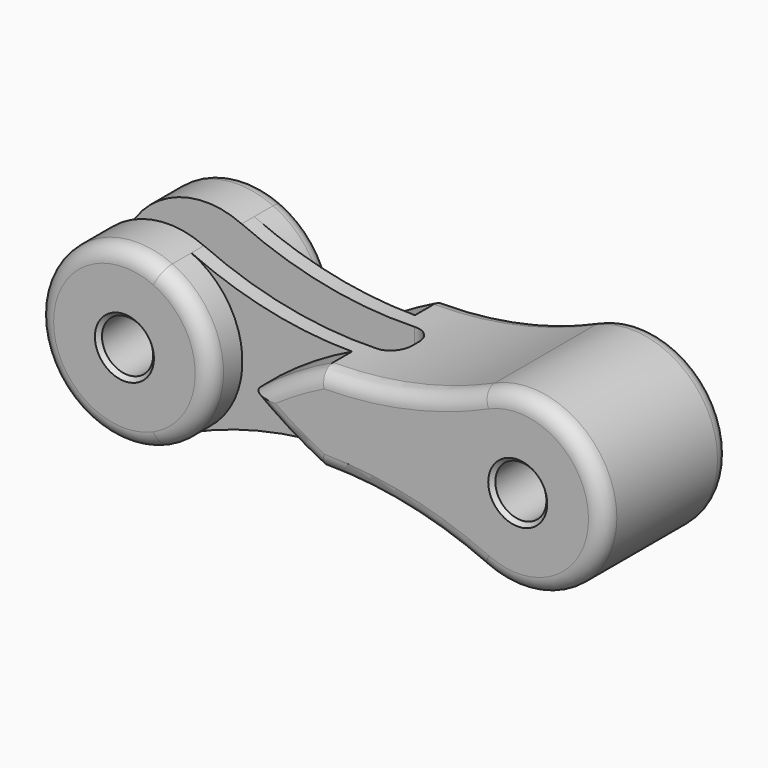
from build123d import *

# Parameters (mm, degrees)
F1_DEPTH  = 10
F3_R      = 3.25
F4_DEPTH  = 20.001
F2_R      = 4.25
F5_DEPTH  = 9
F6_R      = 6.55
F6_R_2    = 4.25
F7_DEPTH  = 5.5
F8_R      = 11
F9_DEPTH  = 5
F11_DEPTH = 5
F12_R     = 2
F14_W     = 6
F14_H     = 30
F15_DEPTH = 40
F16_R     = 2.5
F17_SIZE  = 0.5


with BuildPart() as f1:
    # F0 (on Front) → F1 (new body, symmetric)
    with BuildSketch(Plane.XZ):
        with BuildLine():
            ThreePointArc((20.4918032787, 10.0337511591), (0, 5.641710973), (-20.4918032787, 10.0337511591))
            ThreePointArc((-20.4918032787, 10.0337511591), (-36, 0), (-20.4918032787, -10.0337511591))
            ThreePointArc((-20.4918032787, -10.0337511591), (0, -5.641710973), (20.4918032787, -10.0337511591))
            ThreePointArc((20.4918032787, -10.0337511591), (36, 0), (20.4918032787, 10.0337511591))
        make_face()
    extrude(amount=F1_DEPTH, both=True)

    # F3 (on face) → F4 (cut, through all)
    with BuildSketch(Plane(origin=(0, 10, 0), x_dir=(-1, 0, 0), z_dir=(0, 1, 0))):
        with Locations((-25, 0)):
            Circle(F3_R)
        with Locations((25, 0)):
            Circle(F3_R)
    extrude(amount=-F4_DEPTH, mode=Mode.SUBTRACT)

    # F2 (on face) → F5 (cut)
    with BuildSketch(Plane(origin=(0, 10, 0), x_dir=(-1, 0, 0), z_dir=(0, 1, 0))):
        with Locations((25, 0)):
            Circle(F2_R)
    extrude(amount=-F5_DEPTH, mode=Mode.SUBTRACT)

    # F6 (on face) → F7 (cut)
    with BuildSketch(Plane(origin=(0, 10, 0), x_dir=(-1, 0, 0), z_dir=(0, 1, 0))):
        with Locations((25, 0)):
            Circle(F6_R)
        with Locations((25, 0)):
            Circle(F6_R_2, mode=Mode.SUBTRACT)
    extrude(amount=-F7_DEPTH, mode=Mode.SUBTRACT)

    # F8 (on face) → F9 (cut)
    with BuildSketch(Plane.XZ.offset(10)):
        with BuildLine():
            ThreePointArc((5.6538687387, -7.9576025909), (-2.1053254823, -4.6082797346), (-9.1895908953, 0))
            ThreePointArc((-9.1895908953, 0), (-2.1053254823, 4.6082797346), (5.6538687387, 7.9576025909))
            Line((5.6538687387, 7.9576025909), (-41.2745177746, 16.0983856767))
            Line((-41.2745177746, 16.0983856767), (-41.2745177746, 0))
            Line((-41.2745177746, 0), (-41.2745177746, -16.0983856767))
            Line((-41.2745177746, -16.0983856767), (5.6538687387, -7.9576025909))
        make_face()
        with Locations((-25, 0)):
            Circle(F8_R, mode=Mode.SUBTRACT)
    extrude(amount=-F9_DEPTH, mode=Mode.SUBTRACT)

    # F10 (on face) → F11 (cut)
    with BuildSketch(Plane(origin=(0, 10, 0), x_dir=(-1, 0, 0), z_dir=(0, 1, 0))):
        with BuildLine():
            Line((-5.6538687387, -7.9576025909), (41.2745177746, -16.0983856767))
            Line((41.2745177746, -16.0983856767), (41.2745177746, 0))
            Line((41.2745177746, 0), (41.2745177746, 16.0983856767))
            Line((41.2745177746, 16.0983856767), (-5.6538687387, 7.9576025909))
            ThreePointArc((-5.6538687387, 7.9576025909), (-2.7576543334, 6.8880347996), (0.0670265411, 5.6417558986))
            ThreePointArc((0.0670265411, 5.6417558986), (10.5113641589, 6.7590839617), (20.4918032787, 10.0337511591))
            ThreePointArc((20.4918032787, 10.0337511591), (30.9753592388, 9.235533659), (36, 0))
            ThreePointArc((36, 0), (30.9753592388, -9.235533659), (20.4918032787, -10.0337511591))
            ThreePointArc((20.4918032787, -10.0337511591), (10.5113641589, -6.7590839617), (0.0670265411, -5.6417558986))
            ThreePointArc((0.0670265411, -5.6417558986), (-2.7576543334, -6.8880347996), (-5.6538687387, -7.9576025909))
        make_face()
        with BuildLine():
            ThreePointArc((9.1895908953, 0), (4.7800323728, -3.0662109323), (0.0670265411, -5.6417558986))
            ThreePointArc((0.0670265411, -5.6417558986), (10.5113641589, -6.7590839617), (20.4918032787, -10.0337511591))
            ThreePointArc((20.4918032787, -10.0337511591), (14, 0), (20.4918032787, 10.0337511591))
            ThreePointArc((20.4918032787, 10.0337511591), (10.5113641589, 6.7590839617), (0.0670265411, 5.6417558986))
            ThreePointArc((0.0670265411, 5.6417558986), (4.7800323728, 3.0662109323), (9.1895908953, 0))
        make_face()
    extrude(amount=-F11_DEPTH, mode=Mode.SUBTRACT)

    # F12
    f12_edges = [f1.edges().sort_by_distance(p)[0] for p in [
        (-36, -10, 0),
        (-4.780032, -10, -3.066211),
        (-4.780032, -10, 3.066211),
        (10.445826, -10, 6.745037),
        (10.445826, 10, -6.745037),
        (-4.780032, 10, -3.066211),
        (-4.780032, 10, 3.066211),
        (-29.508197, 10, -10.033751),
    ]]
    fillet(f12_edges, radius=F12_R)

    # F14 (on offset) → F15 (cut)
    with BuildSketch(Plane.YZ.offset(-36)):
        Rectangle(F14_W, F14_H)
    extrude(amount=F15_DEPTH, mode=Mode.SUBTRACT)

    # F16
    f16_edges = [f1.edges().sort_by_distance(p)[0] for p in [
        (4, 3, 0),
        (4, -3, 0),
    ]]
    fillet(f16_edges, radius=F16_R)

    # F17
    f17_edges = [f1.edges().sort_by_distance(p)[0] for p in [
        (-21.75, -10, 0),
        (28.25, -10, 0),
        (28.25, 10, 0),
    ]]
    chamfer(f17_edges, length=F17_SIZE)


solid = f1.part
